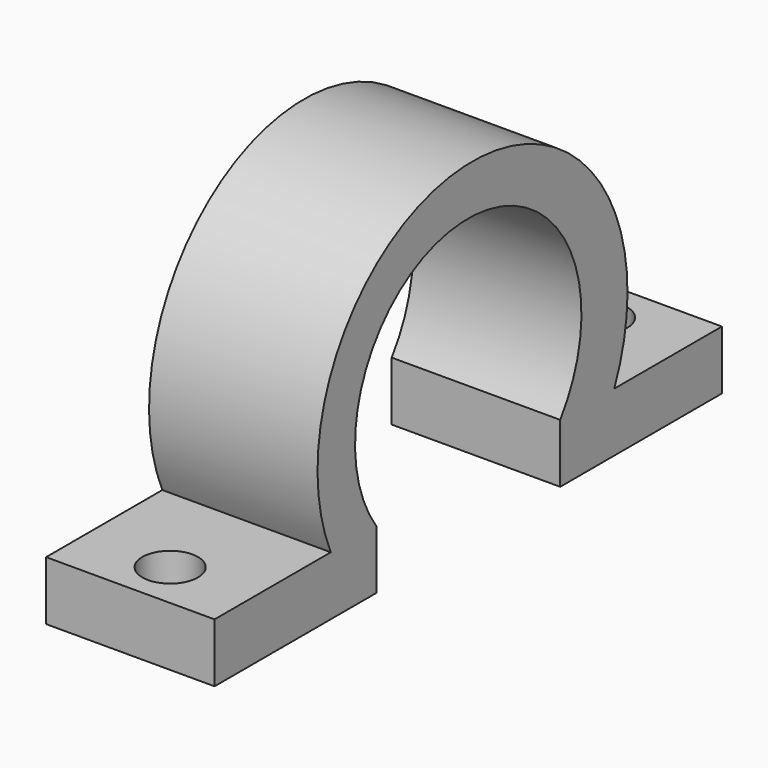
from build123d import *

# Parameters (mm, degrees)
F1_DEPTH = 10
F3_D     = 3.3
F4_D     = 3.3


with BuildPart() as f1:
    # F0 (on Right) → F1 (new body)
    with BuildSketch(Plane.YZ):
        with BuildLine():
            ThreePointArc((-22.8023384852, 19.4527051061), (-15.9795824438, 32.7527051061), (-9.1568264025, 19.4527051061))
            Line((-9.1568264025, 19.4527051061), (-5.1476741432, 19.4527051061))
            ThreePointArc((-5.1476741432, 19.4527051061), (-15.6627106592, 35.6093140728), (-26.1777471751, 19.4527051061))
            Line((-26.1777471751, 19.4527051061), (-22.8023384852, 19.4527051061))
        make_face()
        Polygon((-5.1476741432, 19.4527051061), (-9.1568264025, 19.4527051061), (-9.1568264025, 15.9527051061), (2.8431735975, 15.9527051061), (2.8431735975, 19.4527051061), align=None)
        Polygon((-22.8023384852, 15.9527051061), (-22.8023384852, 19.4527051061), (-26.1777471751, 19.4527051061), (-34.8023384852, 19.4527051061), (-34.8025824438, 15.9527051061), align=None)
    extrude(amount=F1_DEPTH)

    # F3 (through all)
    with Locations(Plane(origin=(0, 0, 0), x_dir=(1, 0, 0), z_dir=(0, 0, -1))):
        with Locations((5.1220096648, 32)):
            Hole(F3_D / 2)

    # F4 (through all)
    with Locations(Plane(origin=(0, 0, 0), x_dir=(1, 0, 0), z_dir=(0, 0, -1))):
        with Locations((5.00610983, 0)):
            Hole(F4_D / 2)


solid = f1.part
